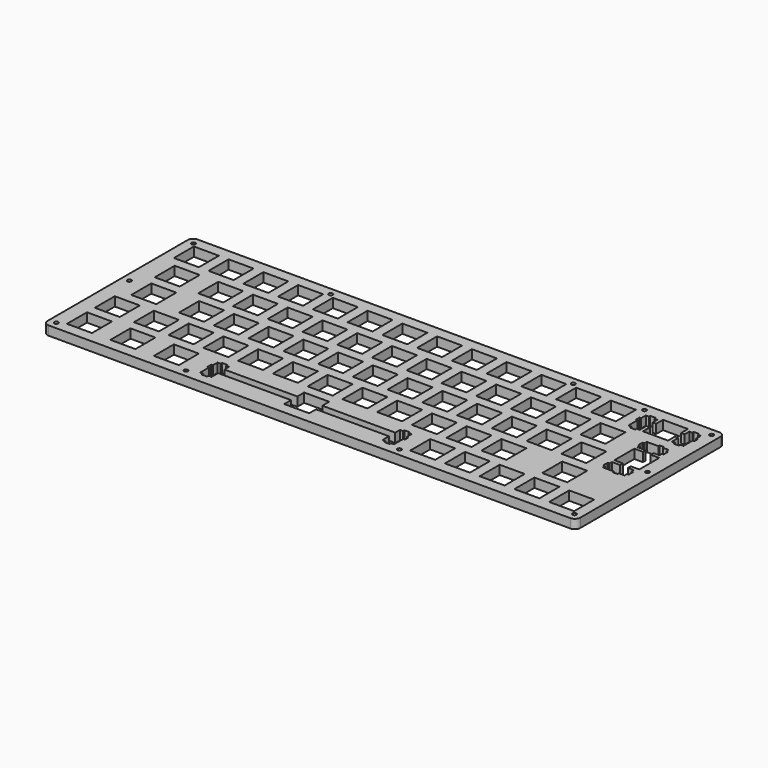
from build123d import *

# Parameters (mm, degrees)
F0_W     = 13.70049
F0_H     = 13.70042
F0_W_2   = 13.699
F0_W_3   = 13.7005
F0_H_2   = 13.7003
F0_W_4   = 13.6989
F0_W_5   = 13.7
F0_W_6   = 13.6991
F0_H_3   = 13.7001
F0_W_7   = 13.7003
F0_W_8   = 13.6994
F0_W_9   = 13.70044
F0_W_10  = 13.7004
F1_DEPTH = 5
F2_R     = 1.1
F3_DEPTH = 5.001


with BuildPart() as f1:
    # F0 (on Top) → F1 (new body)
    with BuildSketch(Plane.XY):
        with BuildLine():
            ThreePointArc((146, 48), (145.12132, 50.12132), (143, 51))
            Line((143, 51), (-143, 51))
            ThreePointArc((-143, 51), (-145.12132, 50.12132), (-146, 48))
            Line((-146, 48), (-146, -48))
            ThreePointArc((-146, -48), (-145.12132, -50.12132), (-143, -51))
            Line((-143, -51), (143, -51))
            ThreePointArc((143, -51), (145.12132, -50.12132), (146, -48))
            Line((146, -48), (146, 48))
        make_face()
        with Locations((-130.968698, -38.099765)):
            Rectangle(F0_W, F0_H, mode=Mode.SUBTRACT)
        with Locations((-107.156953, -38.099765)):
            Rectangle(F0_W_2, F0_H, mode=Mode.SUBTRACT)
        with Locations((-83.343803, -38.099765)):
            Rectangle(F0_W_3, F0_H, mode=Mode.SUBTRACT)
        Polygon((-18.756853, -35.950055), (-18.756853, -31.249555), (-5.057853, -31.249555), (-5.057853, -35.950055), (34.918147, -35.950055), (34.918147, -32.719855), (36.592147, -32.719855), (36.592147, -31.799355), (39.592147, -31.799355), (39.592147, -32.719855), (41.268147, -32.719855), (41.268147, -35.950055), (42.143147, -35.950055), (42.143147, -38.449755), (41.268147, -38.449755), (41.268147, -44.719865), (39.592147, -44.719865), (39.592147, -45.699635), (36.592147, -45.699635), (36.592147, -44.719865), (34.918147, -44.719865), (34.918147, -40.249455), (-5.057853, -40.249455), (-5.057853, -44.949975), (-18.756853, -44.949975), (-18.756853, -40.249455), (-58.731953, -40.249455), (-58.731953, -44.719865), (-60.407653, -44.719865), (-60.407653, -45.699635), (-63.407653, -45.699635), (-63.407653, -44.719865), (-65.081953, -44.719865), (-65.081953, -38.449755), (-65.957153, -38.449755), (-65.957153, -35.950055), (-65.081953, -35.950055), (-65.081953, -32.719855), (-63.407653, -32.719855), (-63.407653, -31.799355), (-60.407653, -31.799355), (-60.407653, -32.719855), (-58.731953, -32.719855), (-58.731953, -35.950055), align=None, mode=Mode.SUBTRACT)
        with Locations((-130.968698, -19.049805)):
            Rectangle(F0_W, F0_H_2, mode=Mode.SUBTRACT)
        with Locations((-109.538203, -19.049805)):
            Rectangle(F0_W_4, F0_H_2, mode=Mode.SUBTRACT)
        with Locations((-90.488253, -19.049805)):
            Rectangle(F0_W_2, F0_H_2, mode=Mode.SUBTRACT)
        with Locations((-71.438253, -19.049805)):
            Rectangle(F0_W_2, F0_H_2, mode=Mode.SUBTRACT)
        with Locations((-52.388303, -19.049805)):
            Rectangle(F0_W_4, F0_H_2, mode=Mode.SUBTRACT)
        with Locations((-33.338353, -19.049805)):
            Rectangle(F0_W_2, F0_H_2, mode=Mode.SUBTRACT)
        with Locations((-14.288353, -19.049805)):
            Rectangle(F0_W_2, F0_H_2, mode=Mode.SUBTRACT)
        with Locations((57.150147, -38.099765)):
            Rectangle(F0_W_5, F0_H, mode=Mode.SUBTRACT)
        with Locations((76.200147, -38.099765)):
            Rectangle(F0_W_5, F0_H, mode=Mode.SUBTRACT)
        with Locations((95.250147, -38.099765)):
            Rectangle(F0_W_5, F0_H, mode=Mode.SUBTRACT)
        with Locations((114.300147, -38.099765)):
            Rectangle(F0_W_5, F0_H, mode=Mode.SUBTRACT)
        with Locations((133.350147, -38.099765)):
            Rectangle(F0_W_5, F0_H, mode=Mode.SUBTRACT)
        with Locations((4.761647, -19.049805)):
            Rectangle(F0_W_2, F0_H_2, mode=Mode.SUBTRACT)
        with Locations((23.811647, -19.049805)):
            Rectangle(F0_W_2, F0_H_2, mode=Mode.SUBTRACT)
        with Locations((42.861647, -19.049805)):
            Rectangle(F0_W_2, F0_H_2, mode=Mode.SUBTRACT)
        with Locations((61.911647, -19.049805)):
            Rectangle(F0_W_2, F0_H_2, mode=Mode.SUBTRACT)
        with Locations((80.961647, -19.049805)):
            Rectangle(F0_W_2, F0_H_2, mode=Mode.SUBTRACT)
        with Locations((114.300147, -19.049805)):
            Rectangle(F0_W_5, F0_H_2, mode=Mode.SUBTRACT)
        with Locations((-126.206903, 0.000295)):
            Rectangle(F0_W_6, F0_H_3, mode=Mode.SUBTRACT)
        with Locations((-100.013253, 0.000295)):
            Rectangle(F0_W_2, F0_H_3, mode=Mode.SUBTRACT)
        with Locations((-80.963253, 0.000295)):
            Rectangle(F0_W_2, F0_H_3, mode=Mode.SUBTRACT)
        with Locations((-128.588103, 19.050295)):
            Rectangle(F0_W_6, F0_H_3, mode=Mode.SUBTRACT)
        with Locations((-104.775003, 19.050295)):
            Rectangle(F0_W_7, F0_H_3, mode=Mode.SUBTRACT)
        with Locations((-85.726503, 19.050295)):
            Rectangle(F0_W_3, F0_H_3, mode=Mode.SUBTRACT)
        with Locations((-61.913253, 0.000295)):
            Rectangle(F0_W_2, F0_H_3, mode=Mode.SUBTRACT)
        with Locations((-42.863303, 0.000295)):
            Rectangle(F0_W_4, F0_H_3, mode=Mode.SUBTRACT)
        with Locations((-23.813353, 0.000295)):
            Rectangle(F0_W_2, F0_H_3, mode=Mode.SUBTRACT)
        with Locations((-4.763353, 0.000295)):
            Rectangle(F0_W_2, F0_H_3, mode=Mode.SUBTRACT)
        with Locations((-66.675753, 19.050295)):
            Rectangle(F0_W_2, F0_H_3, mode=Mode.SUBTRACT)
        with Locations((-47.625553, 19.050295)):
            Rectangle(F0_W_8, F0_H_3, mode=Mode.SUBTRACT)
        with Locations((-28.575353, 19.050295)):
            Rectangle(F0_W_2, F0_H_3, mode=Mode.SUBTRACT)
        with Locations((-9.524853, 19.050295)):
            Rectangle(F0_W_5, F0_H_3, mode=Mode.SUBTRACT)
        with Locations((-133.349973, 38.100295)):
            Rectangle(F0_W_9, F0_H_3, mode=Mode.SUBTRACT)
        with Locations((-114.300003, 38.100295)):
            Rectangle(F0_W_7, F0_H_3, mode=Mode.SUBTRACT)
        with Locations((-95.250053, 38.100295)):
            Rectangle(F0_W_10, F0_H_3, mode=Mode.SUBTRACT)
        with Locations((-76.200053, 38.100295)):
            Rectangle(F0_W_10, F0_H_3, mode=Mode.SUBTRACT)
        with Locations((-57.150053, 38.100295)):
            Rectangle(F0_W_10, F0_H_3, mode=Mode.SUBTRACT)
        with Locations((-38.100353, 38.100295)):
            Rectangle(F0_W_2, F0_H_3, mode=Mode.SUBTRACT)
        with Locations((-19.049853, 38.100295)):
            Rectangle(F0_W_5, F0_H_3, mode=Mode.SUBTRACT)
        with Locations((14.286647, 0.000295)):
            Rectangle(F0_W_2, F0_H_3, mode=Mode.SUBTRACT)
        with Locations((33.336647, 0.000295)):
            Rectangle(F0_W_2, F0_H_3, mode=Mode.SUBTRACT)
        with Locations((52.386647, 0.000295)):
            Rectangle(F0_W_2, F0_H_3, mode=Mode.SUBTRACT)
        with Locations((71.436647, 0.000295)):
            Rectangle(F0_W_2, F0_H_3, mode=Mode.SUBTRACT)
        with Locations((9.525147, 19.050295)):
            Rectangle(F0_W_5, F0_H_3, mode=Mode.SUBTRACT)
        with Locations((28.575147, 19.050295)):
            Rectangle(F0_W_5, F0_H_3, mode=Mode.SUBTRACT)
        with Locations((47.625147, 19.050295)):
            Rectangle(F0_W_5, F0_H_3, mode=Mode.SUBTRACT)
        with Locations((66.675147, 19.050295)):
            Rectangle(F0_W_5, F0_H_3, mode=Mode.SUBTRACT)
        with Locations((90.486647, 0.000295)):
            Rectangle(F0_W_2, F0_H_3, mode=Mode.SUBTRACT)
        with Locations((109.536647, 0.000295)):
            Rectangle(F0_W_2, F0_H_3, mode=Mode.SUBTRACT)
        Polygon((130.617147, 24.650445), (130.617147, 25.525645), (133.118147, 25.525645), (133.118147, 24.650445), (136.347147, 24.650445), (136.347147, 22.974745), (137.268147, 22.974745), (137.268147, 19.975045), (136.347147, 19.975045), (136.347147, 18.300445), (133.118147, 18.300445), (133.118147, 16.375345), (137.817147, 16.375345), (137.817147, 2.675245), (133.118147, 2.675245), (133.118147, 0.749745), (136.347147, 0.749745), (136.347147, -0.924555), (137.268147, -0.924555), (137.268147, -3.924555), (136.347147, -3.924555), (136.347147, -5.600255), (133.118147, -5.600255), (133.118147, -6.475155), (130.617147, -6.475155), (130.617147, -5.600255), (124.347147, -5.600255), (124.347147, -3.924555), (123.367147, -3.924555), (123.367147, -0.924555), (124.347147, -0.924555), (124.347147, 0.749745), (128.818147, 0.749745), (128.818147, 2.675245), (124.118147, 2.675245), (124.118147, 16.375345), (128.818147, 16.375345), (128.818147, 18.300445), (124.347147, 18.300445), (124.347147, 19.975045), (123.367147, 19.975045), (123.367147, 22.974745), (124.347147, 22.974745), (124.347147, 24.650445), align=None, mode=Mode.SUBTRACT)
        with Locations((85.725147, 19.050295)):
            Rectangle(F0_W_5, F0_H_3, mode=Mode.SUBTRACT)
        with Locations((104.775147, 19.050295)):
            Rectangle(F0_W_5, F0_H_3, mode=Mode.SUBTRACT)
        with Locations((0.000147, 38.100295)):
            Rectangle(F0_W_5, F0_H_3, mode=Mode.SUBTRACT)
        with Locations((19.050147, 38.100295)):
            Rectangle(F0_W_5, F0_H_3, mode=Mode.SUBTRACT)
        with Locations((38.100147, 38.100295)):
            Rectangle(F0_W_5, F0_H_3, mode=Mode.SUBTRACT)
        with Locations((57.150147, 38.100295)):
            Rectangle(F0_W_5, F0_H_3, mode=Mode.SUBTRACT)
        with Locations((76.200147, 38.100295)):
            Rectangle(F0_W_5, F0_H_3, mode=Mode.SUBTRACT)
        with Locations((95.250147, 38.100295)):
            Rectangle(F0_W_5, F0_H_3, mode=Mode.SUBTRACT)
        Polygon((116.975147, 40.249945), (116.975147, 44.950345), (130.675147, 44.950345), (130.675147, 40.249945), (132.600147, 40.249945), (132.600147, 43.479945), (134.274147, 43.479945), (134.274147, 44.400645), (137.274147, 44.400645), (137.274147, 43.479945), (138.950147, 43.479945), (138.950147, 40.249945), (139.825147, 40.249945), (139.825147, 37.750145), (138.950147, 37.750145), (138.950147, 31.480245), (137.274147, 31.480245), (137.274147, 30.500545), (134.274147, 30.500545), (134.274147, 31.480245), (132.600147, 31.480245), (132.600147, 35.950645), (130.675147, 35.950645), (130.675147, 31.250245), (116.975147, 31.250245), (116.975147, 35.950645), (115.049147, 35.950645), (115.049147, 31.480245), (113.375147, 31.480245), (113.375147, 30.500545), (110.374147, 30.500545), (110.374147, 31.480245), (108.699147, 31.480245), (108.699147, 37.750145), (107.825147, 37.750145), (107.825147, 40.249945), (108.699147, 40.249945), (108.699147, 43.479945), (110.374147, 43.479945), (110.374147, 44.400645), (113.375147, 44.400645), (113.375147, 43.479945), (115.049147, 43.479945), (115.049147, 40.249945), align=None, mode=Mode.SUBTRACT)
    extrude(amount=F1_DEPTH)

    # F2 (on face) → F3 (cut, through all)
    with BuildSketch(Plane.XY.offset(5)):
        with Locations((-142, 47)):
            Circle(F2_R)
        with Locations((142, 47)):
            Circle(F2_R)
        with Locations((-66.825193, 47)):
            Circle(F2_R)
        with Locations((66.174807, 47)):
            Circle(F2_R)
        with Locations((-142, -47)):
            Circle(F2_R)
        with Locations((142, -47)):
            Circle(F2_R)
        with Locations((-71, -47)):
            Circle(F2_R)
        with Locations((46, -47)):
            Circle(F2_R)
        with Locations((142, 3)):
            Circle(F2_R)
        with Locations((-142, 3)):
            Circle(F2_R)
        with Locations((105.174807, 47)):
            Circle(F2_R)
    extrude(amount=-F3_DEPTH, mode=Mode.SUBTRACT)


solid = f1.part
